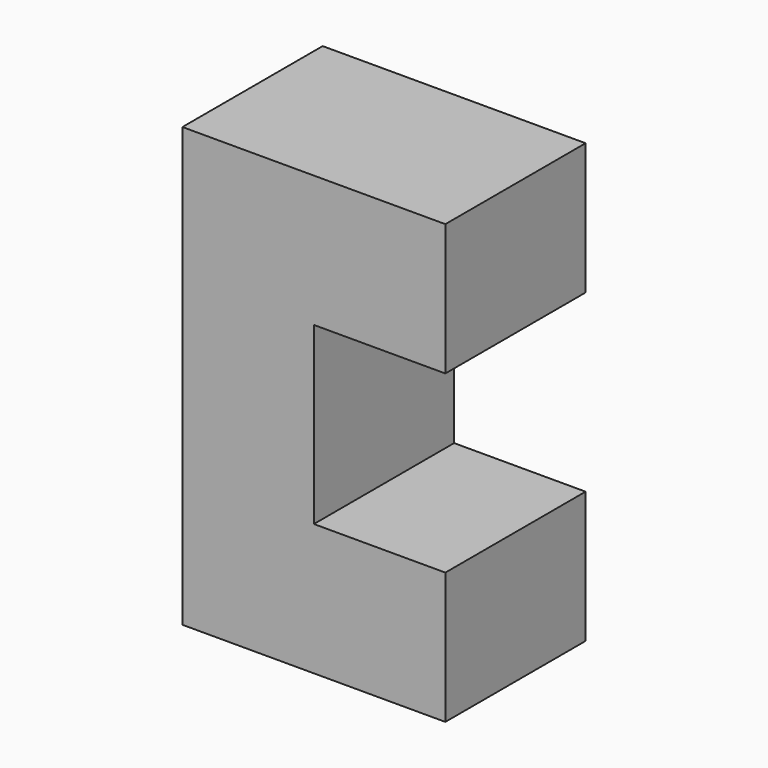
from build123d import *

# Parameters (mm, degrees)
F0_W     = 19.05
F0_H     = 19.05
F1_DEPTH = 12.7


with BuildPart() as f1:
    # F0 (on Front) → F1 (new body, symmetric)
    with BuildSketch(Plane.XZ):
        Polygon((-62.395418, 10.962621), (-43.345418, 10.962621), (-43.345418, 10.962862), (-43.345418, 30.012862), (-43.345418, 55.412621), (-43.345418, 74.462621), (-62.395418, 74.462621), align=None)
        with Locations((-33.820418, 20.487862)):
            Rectangle(F0_W, F0_H)
        with Locations((-33.820418, 64.937621)):
            Rectangle(F0_W, F0_H)
    extrude(amount=F1_DEPTH, both=True)


solid = f1.part
